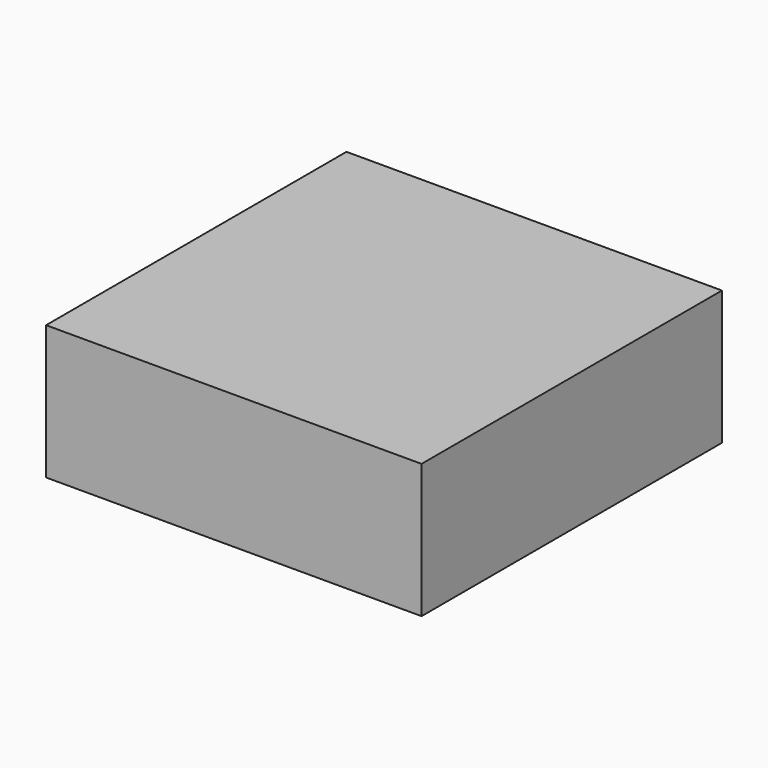
from build123d import *

# Parameters (mm, degrees)
SKETCH_W      = 140
SKETCH_H      = 140
EXTRUDE_DEPTH = 50


with BuildPart() as part:
    # Sketch → Extrude (new body)
    with BuildSketch(Plane.XY):
        Rectangle(SKETCH_W, SKETCH_H)
    extrude(amount=EXTRUDE_DEPTH)


solid = part.part
